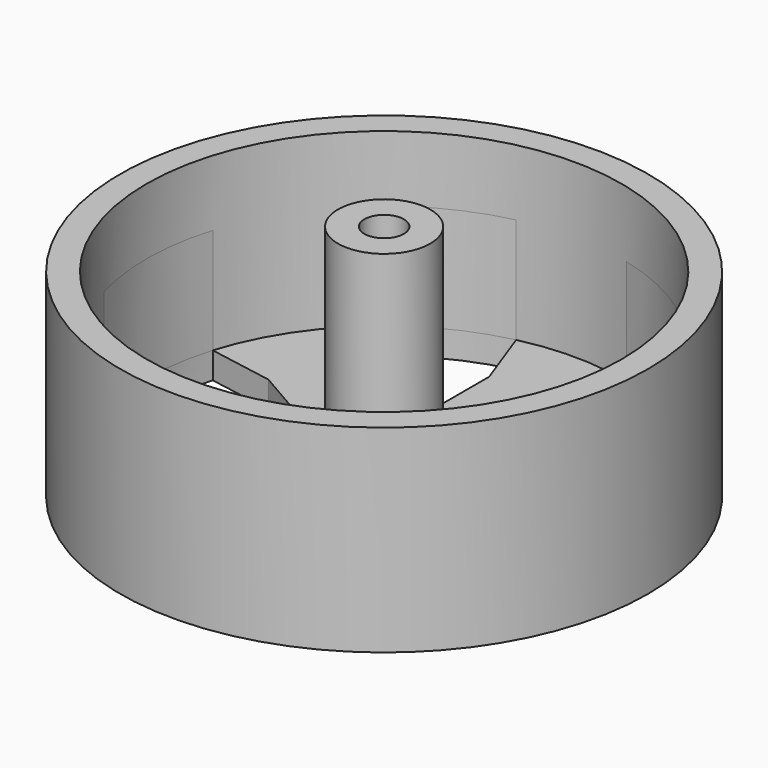
from build123d import *

# Parameters (mm, degrees)
F0_R     = 20
F1_DEPTH = 15
F2_R     = 18
F3_DEPTH = 13
F4_R     = 3.5
F4_R_2   = 1.5
F5_DEPTH = 16
F8_DEPTH = 10


with BuildPart() as f1:
    # F0 (on Top) → F1 (new body)
    with BuildSketch(Plane.XY):
        Circle(F0_R)
    extrude(amount=F1_DEPTH)

    # F2 (on face) → F3 (cut)
    with BuildSketch(Plane.XY.offset(15)):
        Circle(F2_R)
    extrude(amount=-F3_DEPTH, mode=Mode.SUBTRACT)

    # F4 (on face) → F5 (join)
    with BuildSketch(Plane.XY.offset(2)):
        Circle(F4_R)
        Circle(F4_R_2, mode=Mode.SUBTRACT)
    extrude(amount=F5_DEPTH)

    # F7 (on face) → F8 (cut)
    with BuildSketch(Plane.XY):
        with BuildLine():
            Line((10.0770842302, -8.2639499676), (2.3258358706, -3.7887646407))
            Line((2.3258358706, -3.7887646407), (2.3258358706, -12.8589859232))
            Line((2.3258358706, -12.8589859232), (4.0292034895, -17.5432471122))
            ThreePointArc((4.0292034895, -17.5432471122), (8.8280697184, -15.6864650271), (12.9055203458, -12.5478103509))
            Line((12.9055203458, -12.5478103509), (10.0770842302, -8.2639499676))
        make_face()
        with BuildLine():
            Line((-2.1182484925, -12.8589859232), (-2.1182484925, -3.9086152693))
            Line((-2.1182484925, -3.9086152693), (-9.9732905411, -8.4437259106))
            Line((-9.9732905411, -8.4437259106), (-13.1782959193, -12.261016135))
            ThreePointArc((-13.1782959193, -12.261016135), (-9.1708423498, -15.4885651561), (-4.4139623529, -17.450413644))
            Line((-4.4139623529, -17.450413644), (-2.1182484925, -12.8589859232))
        make_face()
        with BuildLine():
            Line((-12.1953327227, -4.5950359556), (-4.4440843631, -0.1198506286))
            Line((-4.4440843631, -0.1198506286), (-12.2991264117, 4.4152600127))
            Line((-12.2991264117, 4.4152600127), (-17.2074994088, 5.2822309772))
            ThreePointArc((-17.2074994088, 5.2822309772), (-17.9989120683, 0.197899871), (-17.3194826987, -4.9026032931))
            Line((-17.3194826987, -4.9026032931), (-12.1953327227, -4.5950359556))
        make_face()
        with BuildLine():
            Line((-10.0770842302, 8.2639499676), (-2.3258358706, 3.7887646407))
            Line((-2.3258358706, 3.7887646407), (-2.3258358706, 12.8589859232))
            Line((-2.3258358706, 12.8589859232), (-4.0292034895, 17.5432471122))
            ThreePointArc((-4.0292034895, 17.5432471122), (-8.8280697184, 15.6864650271), (-12.9055203458, 12.5478103509))
            Line((-12.9055203458, 12.5478103509), (-10.0770842302, 8.2639499676))
        make_face()
        with BuildLine():
            Line((2.1182484925, 12.8589859232), (2.1182484925, 3.9086152693))
            Line((2.1182484925, 3.9086152693), (9.9732905411, 8.4437259106))
            Line((9.9732905411, 8.4437259106), (13.1782959193, 12.261016135))
            ThreePointArc((13.1782959193, 12.261016135), (9.1708423498, 15.4885651561), (4.4139623529, 17.450413644))
            Line((4.4139623529, 17.450413644), (2.1182484925, 12.8589859232))
        make_face()
        with BuildLine():
            Line((12.1953327227, 4.5950359556), (4.4440843631, 0.1198506286))
            Line((4.4440843631, 0.1198506286), (12.2991264117, -4.4152600127))
            Line((12.2991264117, -4.4152600127), (17.2074994088, -5.2822309772))
            ThreePointArc((17.2074994088, -5.2822309772), (17.8007723057, -2.6706750684), (18, 0))
            ThreePointArc((18, 0), (17.8290589849, 2.4748041764), (17.3194826987, 4.9026032931))
            Line((17.3194826987, 4.9026032931), (12.1953327227, 4.5950359556))
        make_face()
    extrude(amount=F8_DEPTH, mode=Mode.SUBTRACT)


solid = f1.part
